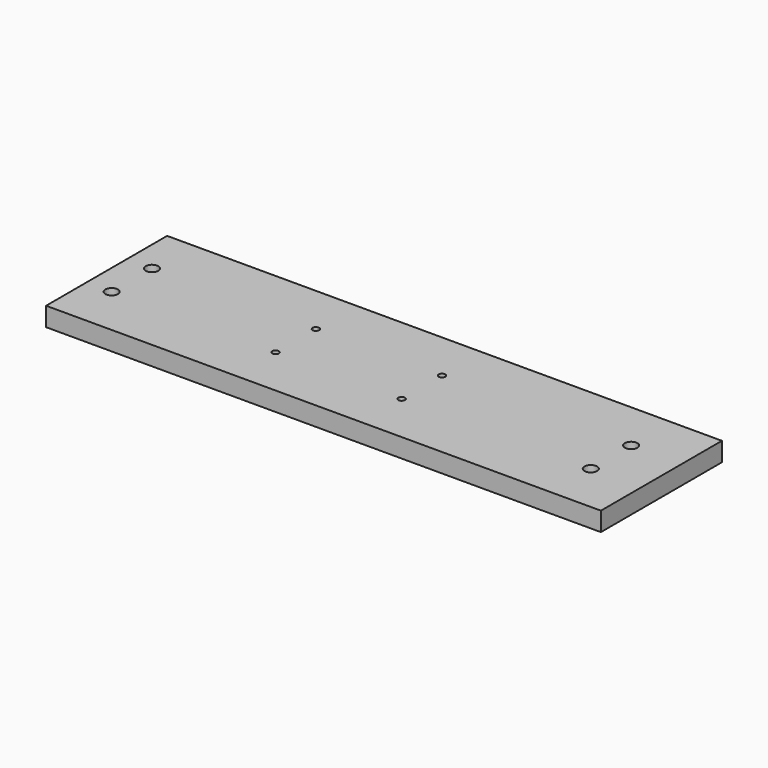
from build123d import *

# Parameters (mm, degrees)
F0_W     = 279.4
F0_H     = 76.2
F1_DEPTH = 9.525
F2_R     = 3.175
F2_R_2   = 1.651
F3_DEPTH = 9.525


with BuildPart() as f1:
    # F0 (on Top) → F1 (new body)
    with BuildSketch(Plane.XY):
        with Locations((-2.803519, 20.569003)):
            Rectangle(F0_W, F0_H)
    extrude(amount=F1_DEPTH)

    # F2 (on face) → F3 (cut)
    with BuildSketch(Plane.XY.offset(9.525)):
        with Locations((-129.803519, 33.269003)):
            Circle(F2_R)
        with Locations((-129.803519, 7.869003)):
            Circle(F2_R)
        with Locations((111.496481, 33.269003)):
            Circle(F2_R)
        with Locations((111.496481, 7.869003)):
            Circle(F2_R)
        with Locations((-47.253519, 33.269003)):
            Circle(F2_R_2)
        with Locations((-47.253519, 7.869003)):
            Circle(F2_R_2)
        with Locations((16.246481, 33.269003)):
            Circle(F2_R_2)
        with Locations((16.246481, 7.869003)):
            Circle(F2_R_2)
    extrude(amount=-F3_DEPTH, mode=Mode.SUBTRACT)


solid = f1.part
